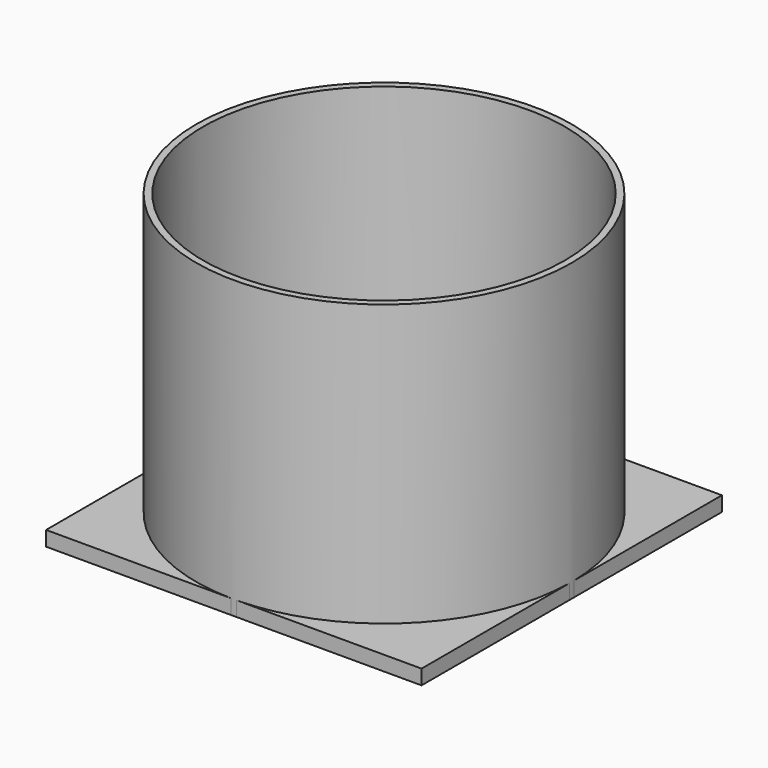
from build123d import *

# Parameters (mm, degrees)
F0_R     = 63.5067928134
F0_R_2   = 61.2196954556
F1_DEPTH = 100
F2_R     = 61.2196954556
F3_DEPTH = 10
F4_W     = 127
F4_H     = 127
F5_DEPTH = 5
F6_R     = 61.2196954556
F7_DEPTH = 11


with BuildPart() as f1:
    # F0 (on Top) → F1 (new body)
    with BuildSketch(Plane.XY):
        Circle(F0_R)
        Circle(F0_R_2, mode=Mode.SUBTRACT)
    extrude(amount=F1_DEPTH)

    # F2 (on Top) → F3 (join)
    with BuildSketch(Plane.XY):
        Circle(F2_R)
    extrude(amount=F3_DEPTH)

    # F4 (on Top) → F5 (join)
    with BuildSketch(Plane.XY):
        Rectangle(F4_W, F4_H)
    extrude(amount=F5_DEPTH)

    # F6 (on Top) → F7 (join)
    with BuildSketch(Plane.XY):
        Circle(F6_R)
        Polygon((-57.7089737026, -1.8106029876), (-57.7089737026, -7.2883260961), (-59.198308557, -7.2883260961), (-59.198308557, 5.5266851086), (-52.0545498486, 5.5266851086), (-52.0545498486, 4.2028319047), (-57.7089737026, 4.2028319047), (-57.7089737026, -0.4867497837), (-52.3967322445, -0.4867497837), (-52.3967322445, -1.8106029876), align=None, mode=Mode.SUBTRACT)
        with BuildLine():
            add(Edge.make_bspline(
                [(-40.3614481387, 3.975645232), (-38.8104082621, 2.2226616463), (-38.8104082621, -0.8625894645)],
                knots=[0, 0, 0, 1, 1, 1], degree=2))
            add(Edge.make_bspline(
                [(-38.8104082621, -0.8625894645), (-38.8104082621, -3.9394262541), (-40.3670576861, -5.7022265478)],
                knots=[0, 0, 0, 1, 1, 1], degree=2))
            add(Edge.make_bspline(
                [(-40.3670576861, -5.7022265478), (-41.9237071102, -7.4650268416), (-44.6920187887, -7.4650268416)],
                knots=[0, 0, 0, 1, 1, 1], degree=2))
            add(Edge.make_bspline(
                [(-44.6920187887, -7.4650268416), (-47.5220354895, -7.4650268416), (-49.0604538842, -5.7330790589)],
                knots=[0, 0, 0, 1, 1, 1], degree=2))
            add(Edge.make_bspline(
                [(-49.0604538842, -5.7330790589), (-50.598872279, -4.0011312763), (-50.598872279, -0.845760822)],
                knots=[0, 0, 0, 1, 1, 1], degree=2))
            add(Edge.make_bspline(
                [(-50.598872279, -0.845760822), (-50.598872279, 2.2843666685), (-49.0562467236, 4.0064977431)],
                knots=[0, 0, 0, 1, 1, 1], degree=2))
            add(Edge.make_bspline(
                [(-49.0562467236, 4.0064977431), (-47.5136211682, 5.7286288177), (-44.6751901463, 5.7286288177)],
                knots=[0, 0, 0, 1, 1, 1], degree=2))
            add(Edge.make_bspline(
                [(-44.6751901463, 5.7286288177), (-41.9124880153, 5.7286288177), (-40.3614481387, 3.975645232)],
                knots=[0, 0, 0, 1, 1, 1], degree=2))
        make_face(mode=Mode.SUBTRACT)
        with BuildLine():
            Line((-31.7900595981, -1.9592559957), (-34.4658137433, -1.9592559957))
            Line((-34.4658137433, -1.9592559957), (-34.4658137433, -7.2883260961))
            Line((-34.4658137433, -7.2883260961), (-35.9551485977, -7.2883260961))
            Line((-35.9551485977, -7.2883260961), (-35.9551485977, 5.5266851086))
            Line((-35.9551485977, 5.5266851086), (-32.4407671051, 5.5266851086))
            add(Edge.make_bspline(
                [(-32.4407671051, 5.5266851086), (-30.0819523922, 5.5266851086), (-28.9558357368, 4.6235479653)],
                knots=[0, 0, 0, 1, 1, 1], degree=2))
            add(Edge.make_bspline(
                [(-28.9558357368, 4.6235479653), (-27.8297190813, 3.7204108219), (-27.8297190813, 1.905722214)],
                knots=[0, 0, 0, 1, 1, 1], degree=2))
            add(Edge.make_bspline(
                [(-27.8297190813, 1.905722214), (-27.8297190813, -0.6354027918), (-30.4073061457, -1.5301256139)],
                knots=[0, 0, 0, 1, 1, 1], degree=2))
            Line((-30.4073061457, -1.5301256139), (-26.926581938, -7.2883260961))
            Line((-26.926581938, -7.2883260961), (-28.6879798449, -7.2883260961))
            Line((-28.6879798449, -7.2883260961), (-31.7900595981, -1.9592559957))
        make_face(mode=Mode.SUBTRACT)
        Polygon((-20.3269493346, 5.5266851086), (-16.9331731128, -0.8822228806), (-13.516958701, 5.5266851086), (-11.9042138021, 5.5266851086), (-16.1814937512, -2.318267034), (-16.1814937512, -7.2883260961), (-17.687657248, -7.2883260961), (-17.687657248, -2.3883863774), (-21.9565228759, 5.5266851086), align=None, mode=Mode.SUBTRACT)
        with BuildLine():
            add(Edge.make_bspline(
                [(-0.5701231306, 3.975645232), (0.980916746, 2.2226616463), (0.980916746, -0.8625894645)],
                knots=[0, 0, 0, 1, 1, 1], degree=2))
            add(Edge.make_bspline(
                [(0.980916746, -0.8625894645), (0.980916746, -3.9394262541), (-0.575732678, -5.7022265478)],
                knots=[0, 0, 0, 1, 1, 1], degree=2))
            add(Edge.make_bspline(
                [(-0.575732678, -5.7022265478), (-2.1323821021, -7.4650268416), (-4.9006937806, -7.4650268416)],
                knots=[0, 0, 0, 1, 1, 1], degree=2))
            add(Edge.make_bspline(
                [(-4.9006937806, -7.4650268416), (-7.7307104814, -7.4650268416), (-9.2691288762, -5.7330790589)],
                knots=[0, 0, 0, 1, 1, 1], degree=2))
            add(Edge.make_bspline(
                [(-9.2691288762, -5.7330790589), (-10.8075472709, -4.0011312763), (-10.8075472709, -0.845760822)],
                knots=[0, 0, 0, 1, 1, 1], degree=2))
            add(Edge.make_bspline(
                [(-10.8075472709, -0.845760822), (-10.8075472709, 2.2843666685), (-9.2649217155, 4.0064977431)],
                knots=[0, 0, 0, 1, 1, 1], degree=2))
            add(Edge.make_bspline(
                [(-9.2649217155, 4.0064977431), (-7.7222961601, 5.7286288177), (-4.8838651382, 5.7286288177)],
                knots=[0, 0, 0, 1, 1, 1], degree=2))
            add(Edge.make_bspline(
                [(-4.8838651382, 5.7286288177), (-2.1211630072, 5.7286288177), (-0.5701231306, 3.975645232)],
                knots=[0, 0, 0, 1, 1, 1], degree=2))
        make_face(mode=Mode.SUBTRACT)
        with BuildLine():
            Line((12.023310949, 5.5266851086), (13.5126458034, 5.5266851086))
            Line((13.5126458034, 5.5266851086), (13.5126458034, -2.7642260582))
            add(Edge.make_bspline(
                [(13.5126458034, -2.7642260582), (13.5126458034, -4.9575591206), (12.1887925995, -6.2112929811)],
                knots=[0, 0, 0, 1, 1, 1], degree=2))
            add(Edge.make_bspline(
                [(12.1887925995, -6.2112929811), (10.8649393955, -7.4650268416), (8.5510010624, -7.4650268416)],
                knots=[0, 0, 0, 1, 1, 1], degree=2))
            add(Edge.make_bspline(
                [(8.5510010624, -7.4650268416), (6.2370627293, -7.4650268416), (4.9707073871, -6.201476273)],
                knots=[0, 0, 0, 1, 1, 1], degree=2))
            add(Edge.make_bspline(
                [(4.9707073871, -6.201476273), (3.7043520448, -4.9379257045), (3.7043520448, -2.7305687734)],
                knots=[0, 0, 0, 1, 1, 1], degree=2))
            Line((3.7043520448, -2.7305687734), (3.7043520448, 5.5266851086))
            Line((3.7043520448, 5.5266851086), (5.1964916729, 5.5266851086))
            Line((5.1964916729, 5.5266851086), (5.1964916729, -2.8343454016))
            add(Edge.make_bspline(
                [(5.1964916729, -2.8343454016), (5.1964916729, -4.4386759793), (6.0729834657, -5.2983391297)],
                knots=[0, 0, 0, 1, 1, 1], degree=2))
            add(Edge.make_bspline(
                [(6.0729834657, -5.2983391297), (6.9494752586, -6.1580022801), (8.6491681432, -6.1580022801)],
                knots=[0, 0, 0, 1, 1, 1], degree=2))
            add(Edge.make_bspline(
                [(8.6491681432, -6.1580022801), (10.2703273633, -6.1580022801), (11.1468191561, -5.2941319691)],
                knots=[0, 0, 0, 1, 1, 1], degree=2))
            add(Edge.make_bspline(
                [(11.1468191561, -5.2941319691), (12.023310949, -4.430261658), (12.023310949, -2.8175167592)],
                knots=[0, 0, 0, 1, 1, 1], degree=2))
            Line((12.023310949, -2.8175167592), (12.023310949, 5.5266851086))
        make_face(mode=Mode.SUBTRACT)
        with BuildLine():
            add(Edge.make_bspline(
                [(30.1407469037, 3.8704662169), (31.7969657954, 2.2142473251), (31.7969657954, -0.7588128362)],
                knots=[0, 0, 0, 1, 1, 1], degree=2))
            add(Edge.make_bspline(
                [(31.7969657954, -0.7588128362), (31.7969657954, -3.9310119328), (30.0748347209, -5.6096690145)],
                knots=[0, 0, 0, 1, 1, 1], degree=2))
            add(Edge.make_bspline(
                [(30.0748347209, -5.6096690145), (28.3527036463, -7.2883260961), (25.1187995274, -7.2883260961)],
                knots=[0, 0, 0, 1, 1, 1], degree=2))
            Line((25.1187995274, -7.2883260961), (21.5679559763, -7.2883260961))
            Line((21.5679559763, -7.2883260961), (21.5679559763, 5.5266851086))
            Line((21.5679559763, 5.5266851086), (25.4946392082, 5.5266851086))
            add(Edge.make_bspline(
                [(25.4946392082, 5.5266851086), (28.4845280119, 5.5266851086), (30.1407469037, 3.8704662169)],
                knots=[0, 0, 0, 1, 1, 1], degree=2))
        make_face(mode=Mode.SUBTRACT)
        Polygon((44.2529659619, -7.2883260961), (42.7103404065, -7.2883260961), (41.1144241501, -3.2129898562), (35.9788834374, -3.2129898562), (34.4026005972, -7.2883260961), (32.8936323267, -7.2883260961), (37.9590536958, 5.5799758096), (39.2127875563, 5.5799758096), align=None, mode=Mode.SUBTRACT)
        with BuildLine():
            add(Edge.make_bspline(
                [(54.5871547962, 3.8704662169), (56.2433736879, 2.2142473251), (56.2433736879, -0.7588128362)],
                knots=[0, 0, 0, 1, 1, 1], degree=2))
            add(Edge.make_bspline(
                [(56.2433736879, -0.7588128362), (56.2433736879, -3.9310119328), (54.5212426133, -5.6096690145)],
                knots=[0, 0, 0, 1, 1, 1], degree=2))
            add(Edge.make_bspline(
                [(54.5212426133, -5.6096690145), (52.7991115388, -7.2883260961), (49.5652074199, -7.2883260961)],
                knots=[0, 0, 0, 1, 1, 1], degree=2))
            Line((49.5652074199, -7.2883260961), (46.0143638688, -7.2883260961))
            Line((46.0143638688, -7.2883260961), (46.0143638688, 5.5266851086))
            Line((46.0143638688, 5.5266851086), (49.9410471007, 5.5266851086))
            add(Edge.make_bspline(
                [(49.9410471007, 5.5266851086), (52.9309359044, 5.5266851086), (54.5871547962, 3.8704662169)],
                knots=[0, 0, 0, 1, 1, 1], degree=2))
        make_face(mode=Mode.SUBTRACT)
        with BuildLine():
            add(Edge.make_bspline(
                [(58.9710161472, -7.2672902931), (58.6723077442, -6.99102008), (58.6723077442, -6.3599459892)],
                knots=[0, 0, 0, 1, 1, 1], degree=2))
            add(Edge.make_bspline(
                [(58.6723077442, -6.3599459892), (58.6723077442, -5.1679171509), (59.7240978957, -5.1679171509)],
                knots=[0, 0, 0, 1, 1, 1], degree=2))
            add(Edge.make_bspline(
                [(59.7240978957, -5.1679171509), (60.2317619421, -5.1679171509), (60.5080321552, -5.4736374882)],
                knots=[0, 0, 0, 1, 1, 1], degree=2))
            add(Edge.make_bspline(
                [(60.5080321552, -5.4736374882), (60.7843023683, -5.7793578256), (60.7843023683, -6.3599459892)],
                knots=[0, 0, 0, 1, 1, 1], degree=2))
            add(Edge.make_bspline(
                [(60.7843023683, -6.3599459892), (60.7843023683, -6.9209007366), (60.5038249946, -7.2322306214)],
                knots=[0, 0, 0, 1, 1, 1], degree=2))
            add(Edge.make_bspline(
                [(60.5038249946, -7.2322306214), (60.2233476209, -7.5435605062), (59.7240978957, -7.5435605062)],
                knots=[0, 0, 0, 1, 1, 1], degree=2))
            add(Edge.make_bspline(
                [(59.7240978957, -7.5435605062), (59.2697245502, -7.5435605062), (58.9710161472, -7.2672902931)],
                knots=[0, 0, 0, 1, 1, 1], degree=2))
        make_face(mode=Mode.SUBTRACT)
        Polygon((60.6440636814, 5.5266851086), (60.1981046572, -3.7571159611), (59.2781388715, -3.7571159611), (58.8293750735, 5.5266851086), align=None, mode=Mode.SUBTRACT)
    extrude(amount=F7_DEPTH)


solid = f1.part
